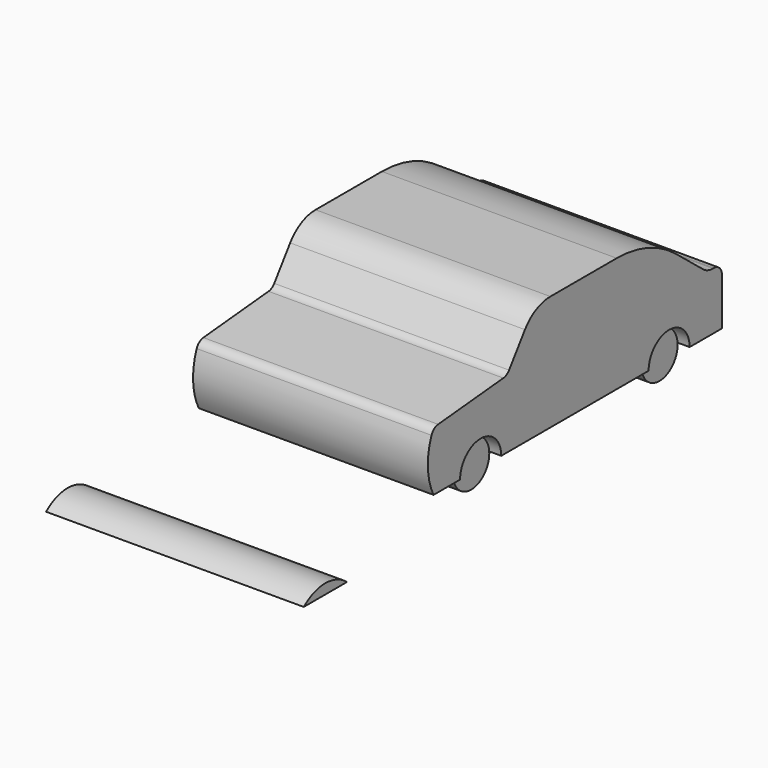
from build123d import *

# Parameters (mm, degrees)
F1_DEPTH  = 60
F2_R      = 5.08
F3_R      = 20
F4_R      = 60
F5_R      = 10
F6_R      = 5.08
F8_R      = 11.585217
F8_R_2    = 11.599017
F9_DEPTH  = 10
F12_DEPTH = 65.84908
F14_R     = 11.579273
F14_R_2   = 11.542485
F15_DEPTH = 10


with BuildPart() as f1:
    # F0 (on Right) → F1 (new body, symmetric)
    with BuildSketch(Plane.YZ):
        with BuildLine():
            ThreePointArc((-58.299312, 0), (-45.147976, 13.151336), (-31.996639, 0))
            Line((-31.996639, 0), (62.140226, 0))
            ThreePointArc((62.140226, 0), (75.246626, 13.1064), (88.353026, 0))
            Line((88.353026, 0), (108.967906, 0))
            Line((108.967906, 0), (108.967906, 29.27976))
            Line((108.967906, 29.27976), (99.725904, 29.27976))
            Line((99.725904, 29.27976), (62.890634, 58.926177))
            Line((62.890634, 58.926177), (-10.860988, 58.926177))
            Line((-10.860988, 58.926177), (-28.354256, 34.654268))
            Line((-28.354256, 34.654268), (-75.246626, 30.28095))
            ThreePointArc((-75.246626, 30.28095), (-78.894076, 15.140475), (-75.246626, 0))
            Line((-75.246626, 0), (-58.299312, 0))
        make_face()
    extrude(amount=F1_DEPTH, both=True)

    # F2
    f2_edges = [f1.edges().sort_by_distance(p)[0] for p in [
        (0, -75.246626, 30.28095),
        (0, -28.354256, 34.654268),
    ]]
    fillet(f2_edges, radius=F2_R)

    # F3
    f3_edges = [f1.edges().sort_by_distance(p)[0] for p in [
        (0, -10.860988, 58.926177),
    ]]
    fillet(f3_edges, radius=F3_R)

    # F4
    f4_edges = [f1.edges().sort_by_distance(p)[0] for p in [
        (0, 62.890634, 58.926177),
    ]]
    fillet(f4_edges, radius=F4_R)

    # F5
    f5_edges = [f1.edges().sort_by_distance(p)[0] for p in [
        (0, 99.725904, 29.27976),
    ]]
    fillet(f5_edges, radius=F5_R)

    # F6
    f6_edges = [f1.edges().sort_by_distance(p)[0] for p in [
        (0, 108.967906, 29.27976),
    ]]
    fillet(f6_edges, radius=F6_R)


with BuildPart() as f9:
    # F8 (on offset) → F9 (new body, symmetric)
    with BuildSketch(Plane.YZ.offset(45)):
        with Locations((-44.988211, 0)):
            Circle(F8_R)
        with Locations((75.315431, 0)):
            Circle(F8_R_2)
    extrude(amount=F9_DEPTH, both=True)


with BuildPart() as f12:
    # F11 (on Right) → F12 (new body, symmetric)
    with BuildSketch(Plane.YZ):
        with BuildLine():
            Line((-165.461525, -11.829036), (-137.917042, -11.829036))
            ThreePointArc((-137.917042, -11.829036), (-151.689284, -6.736467), (-165.461525, -11.829036))
        make_face()
    extrude(amount=F12_DEPTH, both=True)


with BuildPart() as f15:
    # F14 (on offset) → F15 (new body, symmetric)
    with BuildSketch(Plane.YZ.offset(-45)):
        with Locations((-44.916697, 0)):
            Circle(F14_R)
        with Locations((75.106494, 0)):
            Circle(F14_R_2)
    extrude(amount=F15_DEPTH, both=True)


solid = Compound([f1.part, f9.part, f12.part, f15.part])
